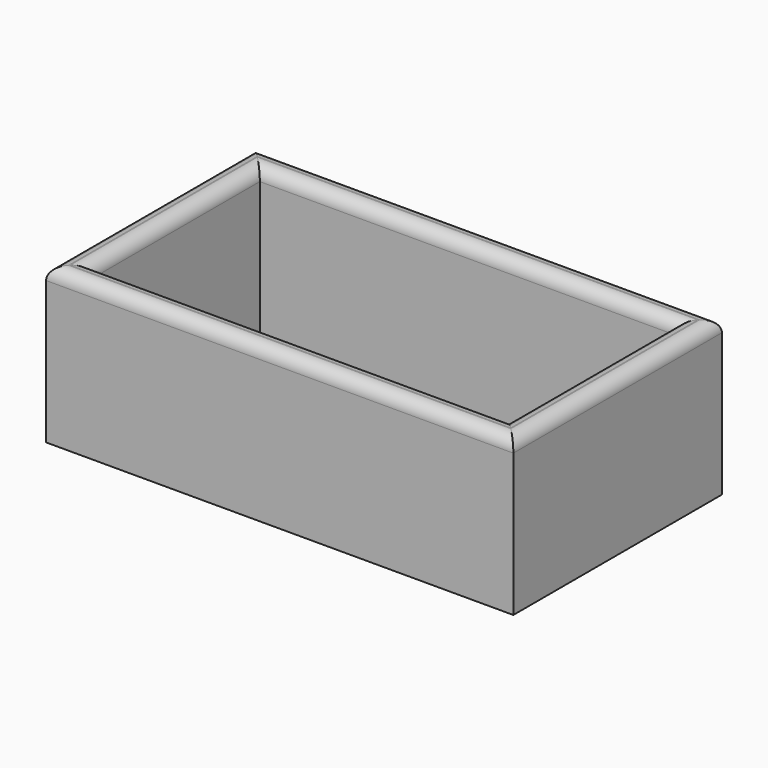
from build123d import *

# Parameters (mm, degrees)
SKETCH_W   = 181
SKETCH_H   = 101
SKETCH_W_2 = 161
SKETCH_H_2 = 81
PAD_DEPTH  = 60
FILLET_R   = 4.8


with BuildPart() as part:
    # Sketch → Pad (new body)
    with BuildSketch(Plane.XY):
        with Locations((90.5, 50.5)):
            Rectangle(SKETCH_W, SKETCH_H)
        with Locations((90.5, 50.5)):
            Rectangle(SKETCH_W_2, SKETCH_H_2, mode=Mode.SUBTRACT)
    extrude(amount=PAD_DEPTH)

    # Fillet
    fillet_edges = [part.edges().sort_by_distance(p)[0] for p in [
        (90.5, 0, 60),
        (181, 50.5, 60),
        (90.5, 101, 60),
        (0, 50.5, 60),
        (90.5, 10, 60),
        (171, 50.5, 60),
        (90.5, 91, 60),
        (10, 50.5, 60),
    ]]
    fillet(fillet_edges, radius=FILLET_R)


solid = part.part
